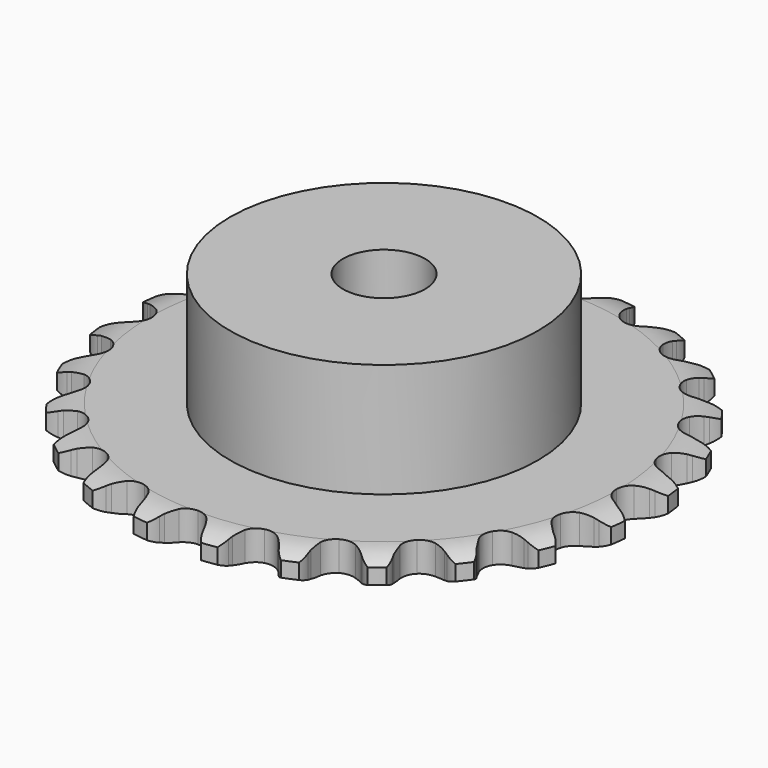
from build123d import *

# Parameters (mm, degrees)
PAD_DEPTH         = 2.9
SKETCH001_R       = 15
PAD001_DEPTH      = 14
SKETCH002_R       = 4
POCKET_DEPTH      = 0.001
POCKET_DEPTH_BACK = 14.001


with BuildPart() as part:
    # Sprocket → Pad (new body)
    with BuildSketch(Plane.XY):
        with BuildLine():
            ThreePointArc((-3.442717, 26.150033), (-2.630845, 25.562995), (-2.091079, 24.718956))
            Line((-2.091079, 24.718956), (-1.930849, 24.319027))
            ThreePointArc((-1.930849, 24.319027), (-1.673487, 23.78546), (-1.345805, 23.291947))
            ThreePointArc((-1.345805, 23.291947), (-0.750276, 22.80321), (0, 22.62827))
            ThreePointArc((0, 22.62827), (0.750276, 22.80321), (1.345805, 23.291947))
            ThreePointArc((1.345805, 23.291947), (1.673487, 23.78546), (1.930849, 24.319027))
            Line((1.930849, 24.319027), (2.091079, 24.718956))
            ThreePointArc((2.091079, 24.718956), (2.630845, 25.562995), (3.442717, 26.150033))
            ThreePointArc((3.442717, 26.150033), (4.074988, 25.37287), (4.377909, 24.41789))
            Line((4.377909, 24.41789), (4.42917, 23.990117))
            ThreePointArc((4.42917, 23.990117), (4.539666, 23.40812), (4.728452, 22.846613))
            ThreePointArc((4.728452, 22.846613), (5.177194, 22.220395), (5.856627, 21.85723))
            ThreePointArc((5.856627, 21.85723), (6.626616, 21.832023), (7.328347, 22.149974))
            Line((7.328347, 22.149974), (8.159284, 22.990636))
            ThreePointArc((8.159284, 22.990636), (8.284139, 23.166261), (8.417564, 23.335467))
            ThreePointArc((8.417564, 23.335467), (9.157392, 24.011044), (10.093536, 24.367951))
            ThreePointArc((10.093536, 24.367951), (10.503119, 23.453626), (10.54855, 22.452784))
            Line((10.54855, 22.452784), (10.487349, 22.02632))
            ThreePointArc((10.487349, 22.02632), (10.443448, 21.435556), (10.480472, 20.844321))
            ThreePointArc((10.480472, 20.844321), (10.751846, 20.123297), (11.314135, 19.596656))
            ThreePointArc((11.314135, 19.596656), (12.051363, 19.373021), (12.811475, 19.498516))
            Line((12.811475, 19.498516), (13.831678, 20.095471))
            ThreePointArc((13.831678, 20.095471), (13.997734, 20.232797), (14.170406, 20.361704))
            ThreePointArc((14.170406, 20.361704), (15.059877, 20.82278), (16.056497, 20.925234))
            ThreePointArc((16.056497, 20.925234), (16.215479, 19.936056), (16.000325, 18.957558))
            Line((16.000325, 18.957558), (15.830832, 18.561465))
            ThreePointArc((15.830832, 18.561465), (15.635526, 18.002194), (15.518266, 17.421522))
            ThreePointArc((15.518266, 17.421522), (15.593779, 16.65483), (16.000603, 16.000603))
            ThreePointArc((16.000603, 16.000603), (16.65483, 15.593779), (17.421522, 15.518266))
            Line((17.421522, 15.518266), (18.561465, 15.830832))
            ThreePointArc((18.561465, 15.830832), (18.757406, 15.920501), (18.957558, 16.000325))
            ThreePointArc((18.957558, 16.000325), (19.936056, 16.215479), (20.925234, 16.056497))
            ThreePointArc((20.925234, 16.056497), (20.82278, 15.059877), (20.361704, 14.170406))
            Line((20.361704, 14.170406), (20.095471, 13.831678))
            ThreePointArc((20.095471, 13.831678), (19.762069, 13.342012), (19.498516, 12.811475))
            ThreePointArc((19.498516, 12.811475), (19.373021, 12.051363), (19.596656, 11.314135))
            ThreePointArc((19.596656, 11.314135), (20.123297, 10.751846), (20.844321, 10.480472))
            Line((20.844321, 10.480472), (22.02632, 10.487349))
            ThreePointArc((22.02632, 10.487349), (22.238791, 10.523249), (22.452784, 10.54855))
            ThreePointArc((22.452784, 10.54855), (23.453626, 10.503119), (24.367951, 10.093536))
            ThreePointArc((24.367951, 10.093536), (24.011044, 9.157392), (23.335467, 8.417564))
            Line((23.335467, 8.417564), (22.990636, 8.159284))
            ThreePointArc((22.990636, 8.159284), (22.541859, 7.772594), (22.149974, 7.328347))
            ThreePointArc((22.149974, 7.328347), (21.832023, 6.626616), (21.85723, 5.856627))
            ThreePointArc((21.85723, 5.856627), (22.220395, 5.177194), (22.846613, 4.728452))
            Line((22.846613, 4.728452), (23.990117, 4.42917))
            ThreePointArc((23.990117, 4.42917), (24.20464, 4.408856), (24.41789, 4.377909))
            ThreePointArc((24.41789, 4.377909), (25.37287, 4.074988), (26.150033, 3.442717))
            ThreePointArc((26.150033, 3.442717), (25.562995, 2.630845), (24.718956, 2.091079))
            Line((24.718956, 2.091079), (24.319027, 1.930849))
            ThreePointArc((24.319027, 1.930849), (23.78546, 1.673487), (23.291947, 1.345805))
            ThreePointArc((23.291947, 1.345805), (22.80321, 0.750276), (22.62827, 0))
            ThreePointArc((22.62827, 0), (22.80321, -0.750276), (23.291947, -1.345805))
            Line((23.291947, -1.345805), (24.319027, -1.930849))
            ThreePointArc((24.319027, -1.930849), (24.520983, -2.005994), (24.718956, -2.091079))
            ThreePointArc((24.718956, -2.091079), (25.562995, -2.630845), (26.150033, -3.442717))
            ThreePointArc((26.150033, -3.442717), (25.37287, -4.074988), (24.41789, -4.377909))
            Line((24.41789, -4.377909), (23.990117, -4.42917))
            ThreePointArc((23.990117, -4.42917), (23.40812, -4.539666), (22.846613, -4.728452))
            ThreePointArc((22.846613, -4.728452), (22.220395, -5.177194), (21.85723, -5.856627))
            ThreePointArc((21.85723, -5.856627), (21.832023, -6.626616), (22.149974, -7.328347))
            Line((22.149974, -7.328347), (22.990636, -8.159284))
            ThreePointArc((22.990636, -8.159284), (23.166261, -8.284139), (23.335467, -8.417564))
            ThreePointArc((23.335467, -8.417564), (24.011044, -9.157392), (24.367951, -10.093536))
            ThreePointArc((24.367951, -10.093536), (23.453626, -10.503119), (22.452784, -10.54855))
            Line((22.452784, -10.54855), (22.02632, -10.487349))
            ThreePointArc((22.02632, -10.487349), (21.435556, -10.443448), (20.844321, -10.480472))
            ThreePointArc((20.844321, -10.480472), (20.123297, -10.751846), (19.596656, -11.314135))
            ThreePointArc((19.596656, -11.314135), (19.373021, -12.051363), (19.498516, -12.811475))
            Line((19.498516, -12.811475), (20.095471, -13.831678))
            ThreePointArc((20.095471, -13.831678), (20.232797, -13.997734), (20.361704, -14.170406))
            ThreePointArc((20.361704, -14.170406), (20.82278, -15.059877), (20.925234, -16.056497))
            ThreePointArc((20.925234, -16.056497), (19.936056, -16.215479), (18.957558, -16.000325))
            Line((18.957558, -16.000325), (18.561465, -15.830832))
            ThreePointArc((18.561465, -15.830832), (18.002194, -15.635526), (17.421522, -15.518266))
            ThreePointArc((17.421522, -15.518266), (16.65483, -15.593779), (16.000603, -16.000603))
            ThreePointArc((16.000603, -16.000603), (15.593779, -16.65483), (15.518266, -17.421522))
            Line((15.518266, -17.421522), (15.830832, -18.561465))
            ThreePointArc((15.830832, -18.561465), (15.920501, -18.757406), (16.000325, -18.957558))
            ThreePointArc((16.000325, -18.957558), (16.215479, -19.936056), (16.056497, -20.925234))
            ThreePointArc((16.056497, -20.925234), (15.059877, -20.82278), (14.170406, -20.361704))
            Line((14.170406, -20.361704), (13.831678, -20.095471))
            ThreePointArc((13.831678, -20.095471), (13.342012, -19.762069), (12.811475, -19.498516))
            ThreePointArc((12.811475, -19.498516), (12.051363, -19.373021), (11.314135, -19.596656))
            ThreePointArc((11.314135, -19.596656), (10.751846, -20.123297), (10.480472, -20.844321))
            Line((10.480472, -20.844321), (10.487349, -22.02632))
            ThreePointArc((10.487349, -22.02632), (10.523249, -22.238791), (10.54855, -22.452784))
            ThreePointArc((10.54855, -22.452784), (10.503119, -23.453626), (10.093536, -24.367951))
            ThreePointArc((10.093536, -24.367951), (9.157392, -24.011044), (8.417564, -23.335467))
            Line((8.417564, -23.335467), (8.159284, -22.990636))
            ThreePointArc((8.159284, -22.990636), (7.772594, -22.541859), (7.328347, -22.149974))
            ThreePointArc((7.328347, -22.149974), (6.626616, -21.832023), (5.856627, -21.85723))
            ThreePointArc((5.856627, -21.85723), (5.177194, -22.220395), (4.728452, -22.846613))
            Line((4.728452, -22.846613), (4.42917, -23.990117))
            ThreePointArc((4.42917, -23.990117), (4.408856, -24.20464), (4.377909, -24.41789))
            ThreePointArc((4.377909, -24.41789), (4.074988, -25.37287), (3.442717, -26.150033))
            ThreePointArc((3.442717, -26.150033), (2.630845, -25.562995), (2.091079, -24.718956))
            Line((2.091079, -24.718956), (1.930849, -24.319027))
            ThreePointArc((1.930849, -24.319027), (1.673487, -23.78546), (1.345805, -23.291947))
            ThreePointArc((1.345805, -23.291947), (0.750276, -22.80321), (0, -22.62827))
            ThreePointArc((0, -22.62827), (-0.750276, -22.80321), (-1.345805, -23.291947))
            Line((-1.345805, -23.291947), (-1.930849, -24.319027))
            ThreePointArc((-1.930849, -24.319027), (-2.005994, -24.520983), (-2.091079, -24.718956))
            ThreePointArc((-2.091079, -24.718956), (-2.630845, -25.562995), (-3.442717, -26.150033))
            ThreePointArc((-3.442717, -26.150033), (-4.074988, -25.37287), (-4.377909, -24.41789))
            Line((-4.377909, -24.41789), (-4.42917, -23.990117))
            ThreePointArc((-4.42917, -23.990117), (-4.539666, -23.40812), (-4.728452, -22.846613))
            ThreePointArc((-4.728452, -22.846613), (-5.177194, -22.220395), (-5.856627, -21.85723))
            ThreePointArc((-5.856627, -21.85723), (-6.626616, -21.832023), (-7.328347, -22.149974))
            Line((-7.328347, -22.149974), (-8.159284, -22.990636))
            ThreePointArc((-8.159284, -22.990636), (-8.284139, -23.166261), (-8.417564, -23.335467))
            ThreePointArc((-8.417564, -23.335467), (-9.157392, -24.011044), (-10.093536, -24.367951))
            ThreePointArc((-10.093536, -24.367951), (-10.503119, -23.453626), (-10.54855, -22.452784))
            Line((-10.54855, -22.452784), (-10.487349, -22.02632))
            ThreePointArc((-10.487349, -22.02632), (-10.443448, -21.435556), (-10.480472, -20.844321))
            ThreePointArc((-10.480472, -20.844321), (-10.751846, -20.123297), (-11.314135, -19.596656))
            ThreePointArc((-11.314135, -19.596656), (-12.051363, -19.373021), (-12.811475, -19.498516))
            Line((-12.811475, -19.498516), (-13.831678, -20.095471))
            ThreePointArc((-13.831678, -20.095471), (-13.997734, -20.232797), (-14.170406, -20.361704))
            ThreePointArc((-14.170406, -20.361704), (-15.059877, -20.82278), (-16.056497, -20.925234))
            ThreePointArc((-16.056497, -20.925234), (-16.215479, -19.936056), (-16.000325, -18.957558))
            Line((-16.000325, -18.957558), (-15.830832, -18.561465))
            ThreePointArc((-15.830832, -18.561465), (-15.635526, -18.002194), (-15.518266, -17.421522))
            ThreePointArc((-15.518266, -17.421522), (-15.593779, -16.65483), (-16.000603, -16.000603))
            ThreePointArc((-16.000603, -16.000603), (-16.65483, -15.593779), (-17.421522, -15.518266))
            Line((-17.421522, -15.518266), (-18.561465, -15.830832))
            ThreePointArc((-18.561465, -15.830832), (-18.757406, -15.920501), (-18.957558, -16.000325))
            ThreePointArc((-18.957558, -16.000325), (-19.936056, -16.215479), (-20.925234, -16.056497))
            ThreePointArc((-20.925234, -16.056497), (-20.82278, -15.059877), (-20.361704, -14.170406))
            Line((-20.361704, -14.170406), (-20.095471, -13.831678))
            ThreePointArc((-20.095471, -13.831678), (-19.762069, -13.342012), (-19.498516, -12.811475))
            ThreePointArc((-19.498516, -12.811475), (-19.373021, -12.051363), (-19.596656, -11.314135))
            ThreePointArc((-19.596656, -11.314135), (-20.123297, -10.751846), (-20.844321, -10.480472))
            Line((-20.844321, -10.480472), (-22.02632, -10.487349))
            ThreePointArc((-22.02632, -10.487349), (-22.238791, -10.523249), (-22.452784, -10.54855))
            ThreePointArc((-22.452784, -10.54855), (-23.453626, -10.503119), (-24.367951, -10.093536))
            ThreePointArc((-24.367951, -10.093536), (-24.011044, -9.157392), (-23.335467, -8.417564))
            Line((-23.335467, -8.417564), (-22.990636, -8.159284))
            ThreePointArc((-22.990636, -8.159284), (-22.541859, -7.772594), (-22.149974, -7.328347))
            ThreePointArc((-22.149974, -7.328347), (-21.832023, -6.626616), (-21.85723, -5.856627))
            ThreePointArc((-21.85723, -5.856627), (-22.220395, -5.177194), (-22.846613, -4.728452))
            Line((-22.846613, -4.728452), (-23.990117, -4.42917))
            ThreePointArc((-23.990117, -4.42917), (-24.20464, -4.408856), (-24.41789, -4.377909))
            ThreePointArc((-24.41789, -4.377909), (-25.37287, -4.074988), (-26.150033, -3.442717))
            ThreePointArc((-26.150033, -3.442717), (-25.562995, -2.630845), (-24.718956, -2.091079))
            Line((-24.718956, -2.091079), (-24.319027, -1.930849))
            ThreePointArc((-24.319027, -1.930849), (-23.78546, -1.673487), (-23.291947, -1.345805))
            ThreePointArc((-23.291947, -1.345805), (-22.80321, -0.750276), (-22.62827, 0))
            ThreePointArc((-22.62827, 0), (-22.80321, 0.750276), (-23.291947, 1.345805))
            Line((-23.291947, 1.345805), (-24.319027, 1.930849))
            ThreePointArc((-24.319027, 1.930849), (-24.520983, 2.005994), (-24.718956, 2.091079))
            ThreePointArc((-24.718956, 2.091079), (-25.562995, 2.630845), (-26.150033, 3.442717))
            ThreePointArc((-26.150033, 3.442717), (-25.37287, 4.074988), (-24.41789, 4.377909))
            Line((-24.41789, 4.377909), (-23.990117, 4.42917))
            ThreePointArc((-23.990117, 4.42917), (-23.40812, 4.539666), (-22.846613, 4.728452))
            ThreePointArc((-22.846613, 4.728452), (-22.220395, 5.177194), (-21.85723, 5.856627))
            ThreePointArc((-21.85723, 5.856627), (-21.832023, 6.626616), (-22.149974, 7.328347))
            Line((-22.149974, 7.328347), (-22.990636, 8.159284))
            ThreePointArc((-22.990636, 8.159284), (-23.166261, 8.284139), (-23.335467, 8.417564))
            ThreePointArc((-23.335467, 8.417564), (-24.011044, 9.157392), (-24.367951, 10.093536))
            ThreePointArc((-24.367951, 10.093536), (-23.453626, 10.503119), (-22.452784, 10.54855))
            Line((-22.452784, 10.54855), (-22.02632, 10.487349))
            ThreePointArc((-22.02632, 10.487349), (-21.435556, 10.443448), (-20.844321, 10.480472))
            ThreePointArc((-20.844321, 10.480472), (-20.123297, 10.751846), (-19.596656, 11.314135))
            ThreePointArc((-19.596656, 11.314135), (-19.373021, 12.051363), (-19.498516, 12.811475))
            Line((-19.498516, 12.811475), (-20.095471, 13.831678))
            ThreePointArc((-20.095471, 13.831678), (-20.232797, 13.997734), (-20.361704, 14.170406))
            ThreePointArc((-20.361704, 14.170406), (-20.82278, 15.059877), (-20.925234, 16.056497))
            ThreePointArc((-20.925234, 16.056497), (-19.936056, 16.215479), (-18.957558, 16.000325))
            Line((-18.957558, 16.000325), (-18.561465, 15.830832))
            ThreePointArc((-18.561465, 15.830832), (-18.002194, 15.635526), (-17.421522, 15.518266))
            ThreePointArc((-17.421522, 15.518266), (-16.65483, 15.593779), (-16.000603, 16.000603))
            ThreePointArc((-16.000603, 16.000603), (-15.593779, 16.65483), (-15.518266, 17.421522))
            Line((-15.518266, 17.421522), (-15.830832, 18.561465))
            ThreePointArc((-15.830832, 18.561465), (-15.920501, 18.757406), (-16.000325, 18.957558))
            ThreePointArc((-16.000325, 18.957558), (-16.215479, 19.936056), (-16.056497, 20.925234))
            ThreePointArc((-16.056497, 20.925234), (-15.059877, 20.82278), (-14.170406, 20.361704))
            Line((-14.170406, 20.361704), (-13.831678, 20.095471))
            ThreePointArc((-13.831678, 20.095471), (-13.342012, 19.762069), (-12.811475, 19.498516))
            ThreePointArc((-12.811475, 19.498516), (-12.051363, 19.373021), (-11.314135, 19.596656))
            ThreePointArc((-11.314135, 19.596656), (-10.751846, 20.123297), (-10.480472, 20.844321))
            Line((-10.480472, 20.844321), (-10.487349, 22.02632))
            ThreePointArc((-10.487349, 22.02632), (-10.523249, 22.238791), (-10.54855, 22.452784))
            ThreePointArc((-10.54855, 22.452784), (-10.503119, 23.453626), (-10.093536, 24.367951))
            ThreePointArc((-10.093536, 24.367951), (-9.157392, 24.011044), (-8.417564, 23.335467))
            Line((-8.417564, 23.335467), (-8.159284, 22.990636))
            ThreePointArc((-8.159284, 22.990636), (-7.772594, 22.541859), (-7.328347, 22.149974))
            ThreePointArc((-7.328347, 22.149974), (-6.626616, 21.832023), (-5.856627, 21.85723))
            ThreePointArc((-5.856627, 21.85723), (-5.177194, 22.220395), (-4.728452, 22.846613))
            Line((-4.728452, 22.846613), (-4.42917, 23.990117))
            ThreePointArc((-4.42917, 23.990117), (-4.408856, 24.20464), (-4.377909, 24.41789))
            ThreePointArc((-4.377909, 24.41789), (-4.074988, 25.37287), (-3.442717, 26.150033))
        make_face()
    extrude(amount=PAD_DEPTH)

    # Sketch → Groove (revolve, cut)
    with BuildSketch(Plane.XZ):
        with BuildLine():
            Line((22.789674, 0), (25.7, 0))
            Line((28.610326, 0), (25.7, 0))
            Line((28.610326, 2.9), (28.610326, 0))
            Line((25.7, 2.9), (28.610326, 2.9))
            Line((22.789674, 2.9), (25.7, 2.9))
            ThreePointArc((25.7, 2.2), (24.286337, 2.72254), (22.789674, 2.9))
            Line((25.7, 0.7), (25.7, 2.2))
            ThreePointArc((22.789674, 0), (24.286337, 0.17746), (25.7, 0.7))
        make_face()
    revolve(axis=Axis((0, 0, 0), (0, 0, 1)), mode=Mode.SUBTRACT)

    # Sketch001 → Pad001 (join)
    with BuildSketch(Plane.XY):
        Circle(SKETCH001_R)
    extrude(amount=PAD001_DEPTH)

    # Sketch002 → Pocket (cut, two sides)
    with BuildSketch(Plane.XY) as pocket_sk:
        Circle(SKETCH002_R)
    extrude(amount=-POCKET_DEPTH, mode=Mode.SUBTRACT)
    extrude(pocket_sk.sketch, amount=POCKET_DEPTH_BACK, mode=Mode.SUBTRACT)


solid = part.part
